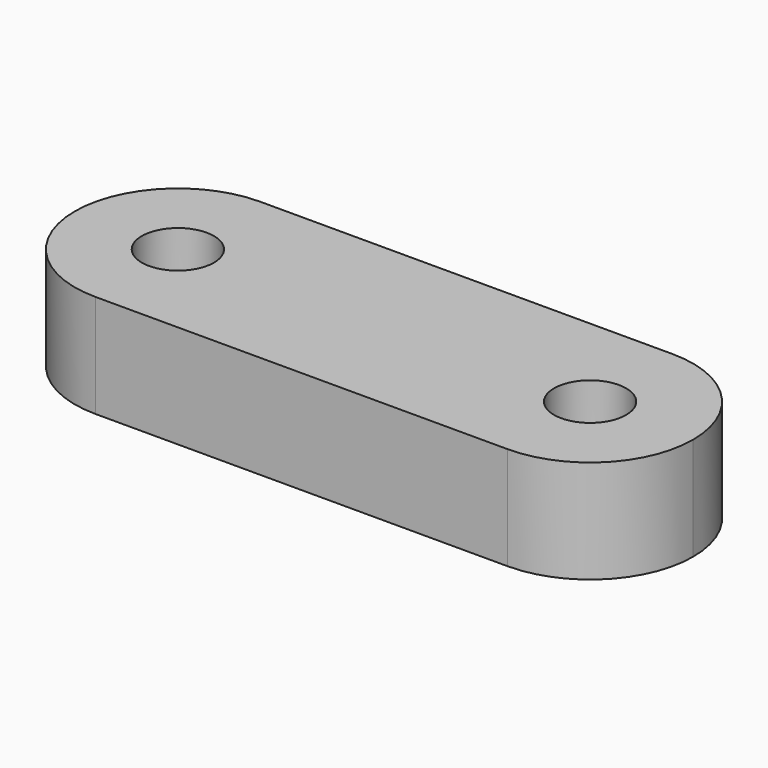
from build123d import *

# Parameters (mm, degrees)
F0_R     = 1.75
F1_DEPTH = 5


with BuildPart() as f1:
    # F0 (on Top) → F1 (new body)
    with BuildSketch(Plane.XY):
        with BuildLine():
            Line((-10, -5), (10, -5))
            ThreePointArc((10, -5), (13.535534, -3.535534), (15, 0))
            ThreePointArc((15, 0), (13.535534, 3.535534), (10, 5))
            Line((10, 5), (-10, 5))
            ThreePointArc((-10, 5), (-13.535534, 3.535534), (-15, 0))
            ThreePointArc((-15, 0), (-13.535534, -3.535534), (-10, -5))
        make_face()
        with Locations((-10, 0)):
            Circle(F0_R, mode=Mode.SUBTRACT)
        with Locations((10, 0)):
            Circle(F0_R, mode=Mode.SUBTRACT)
    extrude(amount=F1_DEPTH)


solid = f1.part
